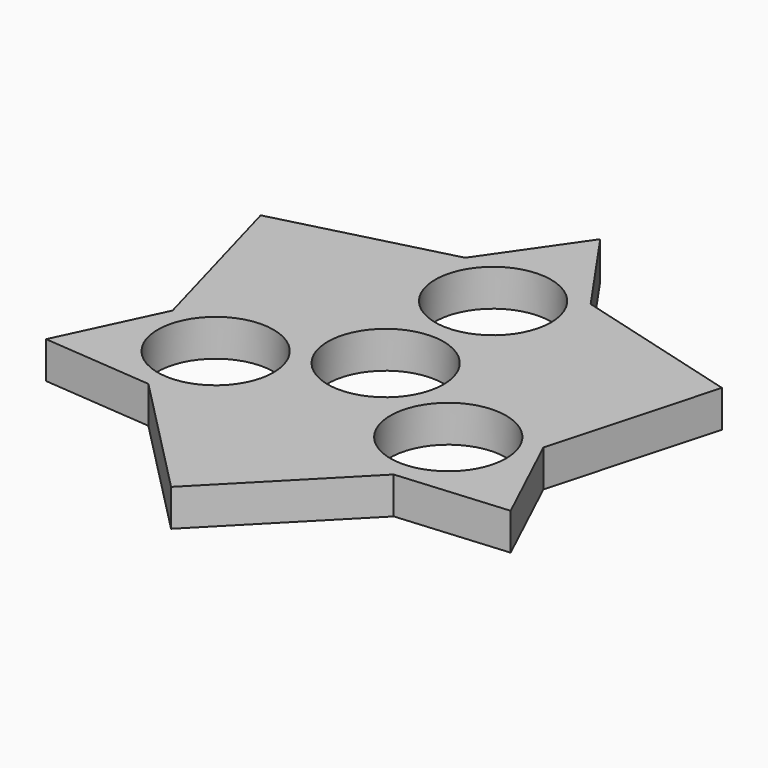
from build123d import *

# Parameters (mm, degrees)
F1_R     = 10.9855
F2_DEPTH = 7


with BuildPart() as f2:
    # F1 (on Top) → F2 (new body)
    with BuildSketch(Plane.XY):
        Polygon((43.857164, 24.899659), (11.898966, 33.732012), (0, 50.871), (-11.898966, 33.732012), (-44.055578, 25.4355), (-35.162262, -6.561199), (-44.055578, -25.4355), (-23.263297, -27.170813), (0, -50.871), (23.263297, -27.170813), (44.055578, -25.4355), (35.162262, -6.561199), align=None)
        with Locations((-22.058533, -12.7355)):
            Circle(F1_R, mode=Mode.SUBTRACT)
        with Locations((22.058533, -12.7355)):
            Circle(F1_R, mode=Mode.SUBTRACT)
        Circle(F1_R, mode=Mode.SUBTRACT)
        with Locations((0, 25.471)):
            Circle(F1_R, mode=Mode.SUBTRACT)
    extrude(amount=F2_DEPTH)


solid = f2.part
